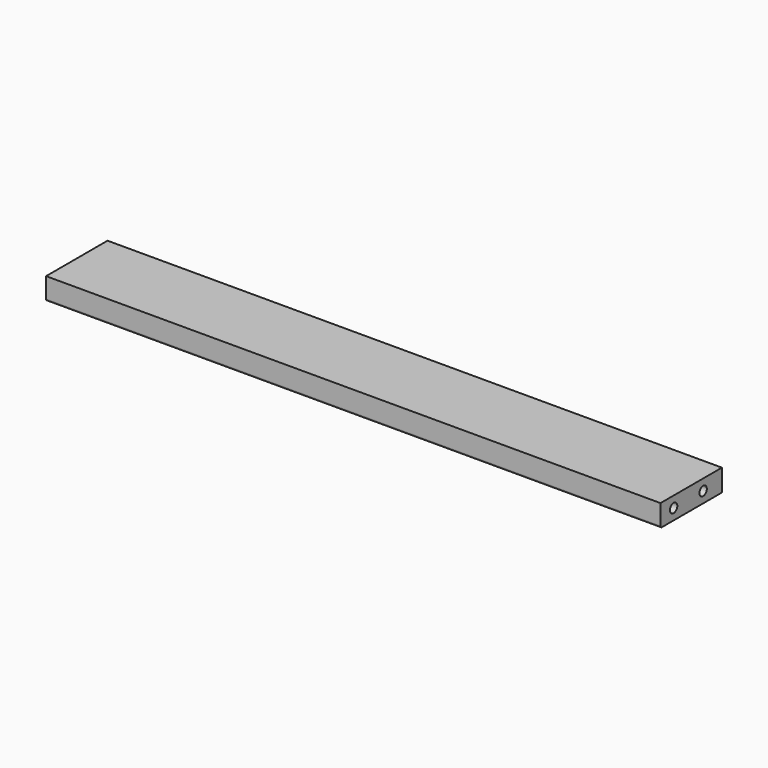
from build123d import *

# Parameters (mm, degrees)
F0_W     = 533.4
F0_H     = 66.675
F1_DEPTH = 19.05
F3_R     = 4
F4_DEPTH = 26.9875
F5_SIZE  = 1.5875
F10_R    = 1.5875


with BuildPart() as f1:
    # F0 (on Top) → F1 (new body)
    with BuildSketch(Plane.XY):
        Rectangle(F0_W, F0_H)
    extrude(amount=-F1_DEPTH)


with BuildPart() as f4:
    # F3 (on Right) → F4 (new body)
    with BuildSketch(Plane.YZ):
        Circle(F3_R)
    extrude(amount=-F4_DEPTH)

    # F5
    f5_edges = [f4.edges().sort_by_distance(p)[0] for p in [
        (-26.9875, -4, 0),
    ]]
    chamfer(f5_edges, length=F5_SIZE)


with BuildPart() as f6_1:
    # F6: copy of F4
    add(f4.part.moved(Location((266.7, -19.05, -9.525))))


with BuildPart() as f4_1:
    # F7: moved
    add(f4.part.moved(Location((266.7, 12.95, -9.525))))


with BuildPart() as f8_1:
    # F8: instance of F4
    add(f4_1.part.mirror(Plane.YZ))


with BuildPart() as f8_2:
    # F8: instance of F6_1
    add(f6_1.part.mirror(Plane.YZ))


with BuildPart() as f1_1:
    add(f1.part)

    # F9: cut F8_2, F8_1, F6_1, F4
    add(f8_2.part, mode=Mode.SUBTRACT)
    add(f8_1.part, mode=Mode.SUBTRACT)
    add(f6_1.part, mode=Mode.SUBTRACT)
    add(f4_1.part, mode=Mode.SUBTRACT)

    # F10
    f10_edges = [f1_1.edges().sort_by_distance(p)[0] for p in [
        (0, -33.3375, -19.05),
    ]]
    fillet(f10_edges, radius=F10_R)


solid = f1_1.part
